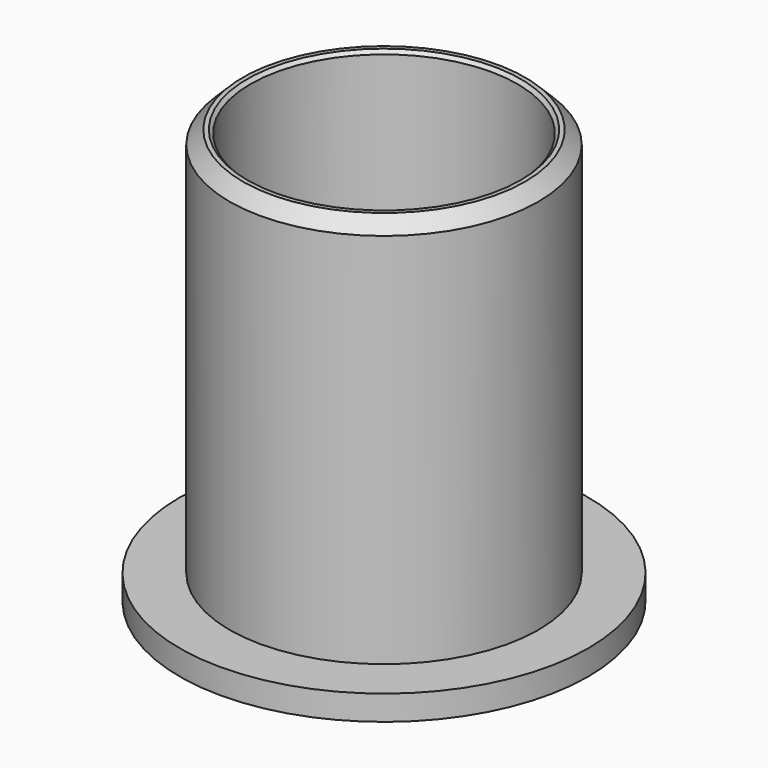
from build123d import *

# Parameters (mm, degrees)
F0_R     = 12.3
F0_R_2   = 9.3
F1_DEPTH = 1.5
F0_R_3   = 8.04
F2_DEPTH = 25
F3_SIZE  = 0.8
F4_SIZE  = 0.2


with BuildPart() as f1:
    # F0 (on Top) → F1 (new body)
    with BuildSketch(Plane.XY):
        Circle(F0_R)
        Circle(F0_R_2, mode=Mode.SUBTRACT)
    extrude(amount=F1_DEPTH)

    # F0 (on Top) → F2 (join)
    with BuildSketch(Plane.XY):
        Circle(F0_R_2)
        Circle(F0_R_3, mode=Mode.SUBTRACT)
    extrude(amount=F2_DEPTH)

    # F3
    f3_edges = [f1.edges().sort_by_distance(p)[0] for p in [
        (-9.3, 0, 25),
    ]]
    chamfer(f3_edges, length=F3_SIZE)

    # F4
    f4_edges = [f1.edges().sort_by_distance(p)[0] for p in [
        (-8.04, 0, 25),
    ]]
    chamfer(f4_edges, length=F4_SIZE)


solid = f1.part
